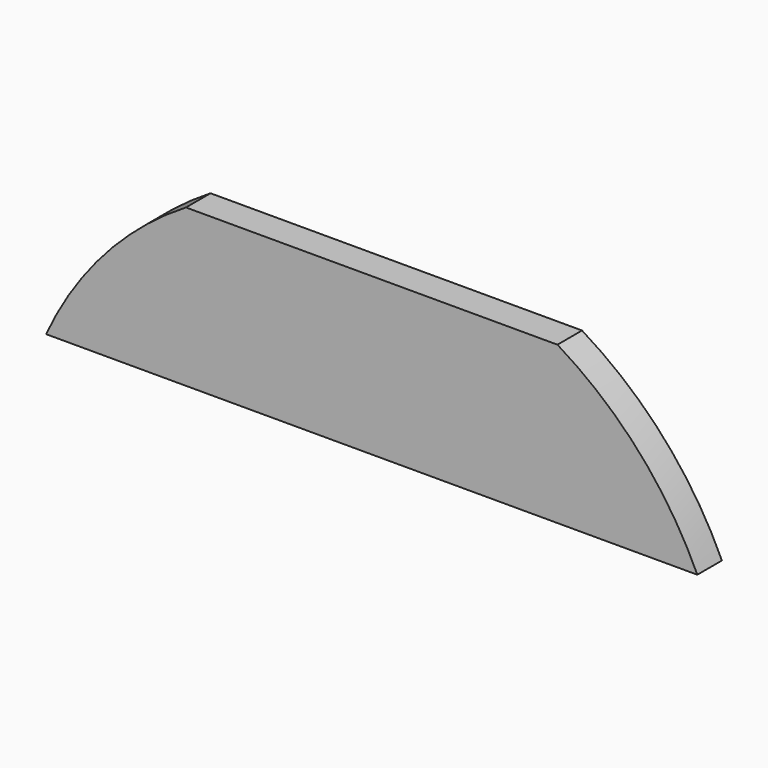
from build123d import *

# Parameters (mm, degrees)
F1_DEPTH = 5.9944


with BuildPart() as f1:
    # F0 (on Front) → F1 (new body)
    with BuildSketch(Plane.XZ):
        with BuildLine():
            ThreePointArc((-36.22162, 59.724507), (-52.159135, 46.459091), (-63.5, 29.099356))
            Line((-63.5, 29.099356), (-15.24, 29.099356))
            Line((-15.24, 29.099356), (15.24, 29.099356))
            Line((15.24, 29.099356), (63.5, 29.099356))
            ThreePointArc((63.5, 29.099356), (52.159135, 46.459091), (36.22162, 59.724507))
            Line((36.22162, 59.724507), (-36.22162, 59.724507))
        make_face()
    extrude(amount=F1_DEPTH)


solid = f1.part
